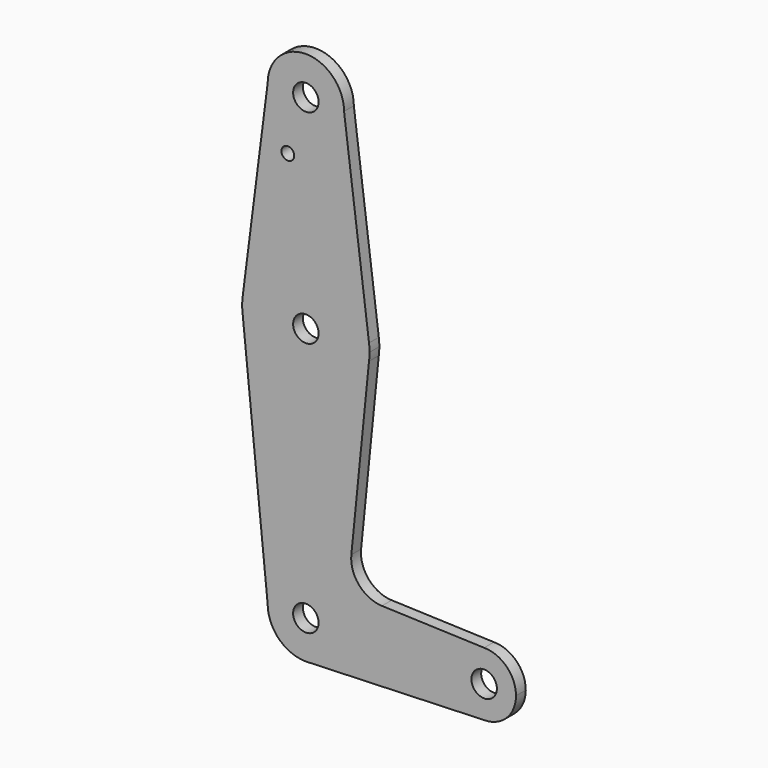
from build123d import *

# Parameters (mm, degrees)
F0_R     = 3.175
F0_R_2   = 1.5875
F1_DEPTH = 3.048


with BuildPart() as f1:
    # F0 (on Front) → F1 (new body)
    with BuildSketch(Plane.XZ):
        with BuildLine():
            ThreePointArc((-9.525, 114.3), (0, 104.775), (9.525, 114.3))
            ThreePointArc((9.525, 114.3), (0, 123.825), (-9.525, 114.3))
        make_face()
        with Locations((0, 114.3)):
            Circle(F0_R, mode=Mode.SUBTRACT)
        with BuildLine():
            Line((15.747457, 65.508289), (9.525, 114.3))
            ThreePointArc((9.525, 114.3), (0, 104.775), (-9.525, 114.3))
            Line((-9.525, 114.3), (-15.747457, 65.508289))
            ThreePointArc((-15.747457, 65.508289), (0, 79.375), (15.747457, 65.508289))
        make_face()
        with Locations((-4.49383, 100.524276)):
            Circle(F0_R_2, mode=Mode.SUBTRACT)
        with BuildLine():
            ThreePointArc((15.875, 63.5), (15.843082, 64.506168), (15.747457, 65.508289))
            ThreePointArc((15.747457, 65.508289), (0, 79.375), (-15.747457, 65.508289))
            ThreePointArc((-15.747457, 65.508289), (-15.875, 63.5), (-15.747457, 61.491711))
            ThreePointArc((-15.747457, 61.491711), (0, 47.625), (15.747457, 61.491711))
            ThreePointArc((15.747457, 61.491711), (15.843082, 62.493832), (15.875, 63.5))
        make_face()
        with Locations((0, 63.5)):
            Circle(F0_R, mode=Mode.SUBTRACT)
        with BuildLine():
            ThreePointArc((15.747457, 61.491711), (0, 47.625), (-15.747457, 61.491711))
            Line((-15.747457, 61.491711), (-9.525, 0))
            ThreePointArc((-9.525, 0), (0, 9.525), (9.525, 0))
            ThreePointArc((9.525, 0), (6.97129, -6.490511), (0.67949, -9.500732))
            Line((0.67949, -9.500732), (44.45, -7.9375))
            ThreePointArc((44.45, -7.9375), (36.5125, 0), (44.45, 7.9375))
            Line((44.45, 7.9375), (18.965536, 8.847659))
            ThreePointArc((18.965536, 8.847659), (13.259249, 11.565454), (11.33887, 17.587102))
            Line((11.33887, 17.587102), (15.747457, 61.491711))
        make_face()
        with BuildLine():
            ThreePointArc((9.525, 0), (0, 9.525), (-9.525, 0))
            ThreePointArc((-9.525, 0), (-6.735192, -6.735192), (0, -9.525))
            Line((0, -9.525), (0.67949, -9.500732))
            ThreePointArc((0.67949, -9.500732), (6.97129, -6.490511), (9.525, 0))
        make_face()
        Circle(F0_R, mode=Mode.SUBTRACT)
        with BuildLine():
            Line((0.67949, -9.500732), (0, -9.525))
            ThreePointArc((0, -9.525), (0.339962, -9.518931), (0.67949, -9.500732))
        make_face()
        with BuildLine():
            ThreePointArc((52.3875, 0), (50.06266, 5.61266), (44.45, 7.9375))
            ThreePointArc((44.45, 7.9375), (36.5125, 0), (44.45, -7.9375))
            ThreePointArc((44.45, -7.9375), (50.06266, -5.61266), (52.3875, 0))
        make_face()
        with Locations((44.45, 0)):
            Circle(F0_R, mode=Mode.SUBTRACT)
    extrude(amount=F1_DEPTH)


solid = f1.part
